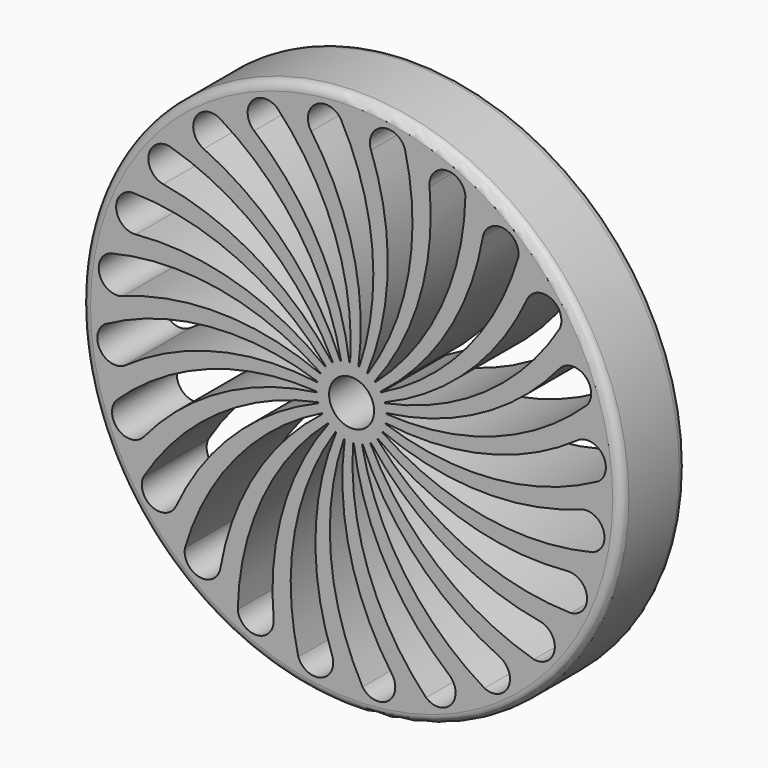
from build123d import *

# Parameters (mm, degrees)
SKETCH059_R        = 30
PAD036_DEPTH       = 9
POCKET022_DEPTH    = 100
POLARPATTERN_COUNT = 24
SKETCH061_R        = 2.5
POCKET023_DEPTH    = 100
FILLET_R           = 1


with BuildPart() as part:
    # Sketch059 → Pad036 (new body)
    with BuildSketch(Plane.XZ):
        Circle(SKETCH059_R)
    extrude(amount=PAD036_DEPTH)

    # Sketch060 → Pocket022 (cut)
    with BuildSketch(Plane.XZ):
        with BuildLine():
            ThreePointArc((0.256654, -3.915786), (3.732149, -14.491377), (10.824499, -23.071631))
            ThreePointArc((8.267765, -26.147848), (11.084241, -25.888106), (10.824499, -23.071631))
            ThreePointArc((0.15751, -3.928838), (1.873696, -15.89209), (8.267765, -26.147848))
            ThreePointArc((0.256654, -3.915786), (0.200556, -3.87274), (0.15751, -3.928838))
        make_face()
    pocket022 = extrude(amount=POCKET022_DEPTH, mode=Mode.SUBTRACT)

    # PolarPattern: Pocket022 ×24 about axis
    polarpattern_axis = Axis((0, 0, 0), (0, -1, 0))
    for i in range(1, POLARPATTERN_COUNT):
        add(pocket022.rotate(polarpattern_axis, i * 360 / POLARPATTERN_COUNT), mode=Mode.SUBTRACT)

    # Sketch061 → Pocket023 (cut)
    with BuildSketch(Plane.XZ):
        Circle(SKETCH061_R)
    extrude(amount=POCKET023_DEPTH, mode=Mode.SUBTRACT)

    # Fillet
    fillet_edges = [part.edges().sort_by_distance(p)[0] for p in [
        (-30, 0, 0),
        (-30, -9, 0),
    ]]
    fillet(fillet_edges, radius=FILLET_R)


with BuildPart() as part_1:
    # Body016 placement: moved
    add(part.part.moved(Location((-1, -101, 23))))


solid = part_1.part
